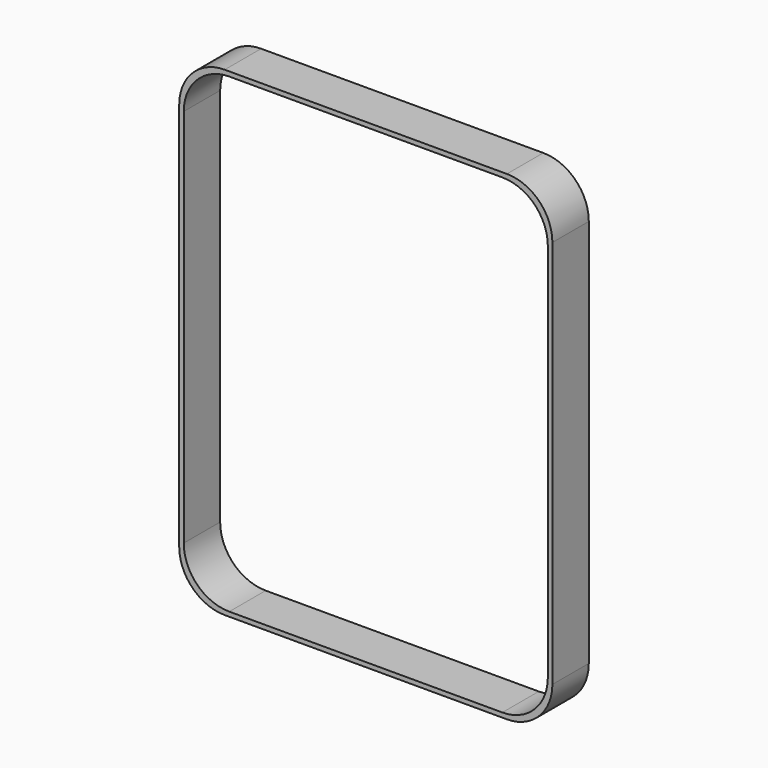
from build123d import *

# Parameters (mm, degrees)
BOX028_W     = 80
BOX028_H     = 10
BOX028_DEPTH = 103.5
FILLET033_R  = 10
BOX029_W     = 82
BOX029_H     = 10
BOX029_DEPTH = 105.5
FILLET034_R  = 10


with BuildPart() as obj1:
    # Box028 → Box028 (new body)
    with BuildSketch(Plane(origin=(-1, -26, -14.75), x_dir=(1, 0, 0), z_dir=(0, 0, 1))):
        with Locations((40, 5)):
            Rectangle(BOX028_W, BOX028_H)
    extrude(amount=BOX028_DEPTH)

    # Fillet033
    fillet033_edges = [obj1.edges().sort_by_distance(p)[0] for p in [
        (-1, -21, 88.75),
        (-1, -21, -14.75),
        (79, -21, 88.75),
        (79, -21, -14.75),
    ]]
    fillet(fillet033_edges, radius=FILLET033_R)


with BuildPart() as obj1_1:
    # Fillet033 placement: moved
    add(obj1.part.moved(Location((0, 0.5, 0))))


with BuildPart() as topcut:
    # Box029 → Box029 (new body)
    with BuildSketch(Plane(origin=(-2, -27, -15.75), x_dir=(1, 0, 0), z_dir=(0, 0, 1))):
        with Locations((41, 5)):
            Rectangle(BOX029_W, BOX029_H)
    extrude(amount=BOX029_DEPTH)

    # Fillet034
    fillet034_edges = [topcut.edges().sort_by_distance(p)[0] for p in [
        (-2, -22, 89.75),
        (-2, -22, -15.75),
        (80, -22, 89.75),
        (80, -22, -15.75),
    ]]
    fillet(fillet034_edges, radius=FILLET034_R)


with BuildPart() as topcut_1:
    # Fillet034 placement: moved
    add(topcut.part.moved(Location((0, 1.5, 0))))

    # Cut009: cut obj1
    add(obj1_1.part, mode=Mode.SUBTRACT)


solid = topcut_1.part
